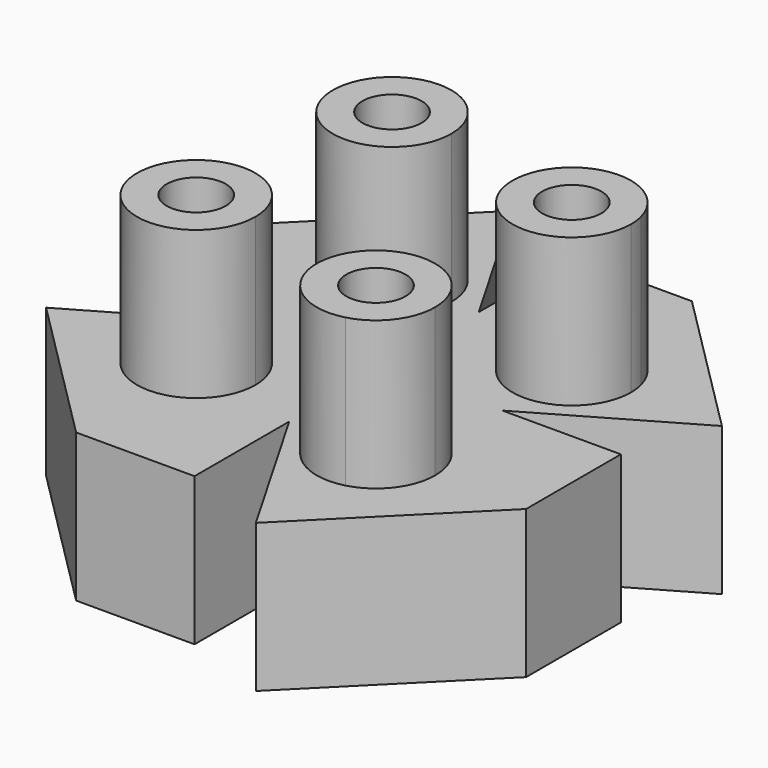
from build123d import *

# Parameters (mm, degrees)
F0_R     = 5
F1_DEPTH = 25
F2_DEPTH = 50


with BuildPart() as f1:
    # F0 (on Top) → F1 (new body)
    with BuildSketch(Plane.XY):
        Polygon((20, 0), (0, 0), (0, -20), (14.641016, -45.358984), (40, -20), (40, 0), align=None)
        with BuildLine():
            ThreePointArc((24.641016, -20), (22.572166, -26.09072), (17.221643, -29.661282))
            ThreePointArc((17.221643, -29.661282), (6.709867, -13.90928), (24.641016, -20))
        make_face(mode=Mode.SUBTRACT)
        with BuildLine():
            ThreePointArc((24.641016, -20), (6.709867, -13.90928), (17.221643, -29.661282))
            ThreePointArc((17.221643, -29.661282), (22.572166, -26.09072), (24.641016, -20))
        make_face()
        with Locations((14.641016, -20)):
            Circle(F0_R, mode=Mode.SUBTRACT)
        Polygon((0, -20), (0, 0), (-20, 0), (-45.358984, -14.641016), (-20, -40), (0, -40), align=None)
        with BuildLine():
            ThreePointArc((-10, -14.641016), (-18.69862, -24.555975), (-29.661282, -17.221643))
            ThreePointArc((-29.661282, -17.221643), (-21.30138, -4.726057), (-10, -14.641016))
        make_face(mode=Mode.SUBTRACT)
        with BuildLine():
            ThreePointArc((-10, -14.641016), (-21.30138, -4.726057), (-29.661282, -17.221643))
            ThreePointArc((-29.661282, -17.221643), (-18.69862, -24.555975), (-10, -14.641016))
        make_face()
        with Locations((-20, -14.641016)):
            Circle(F0_R, mode=Mode.SUBTRACT)
        Polygon((-20, 0), (0, 0), (0, 20), (-14.641016, 45.358984), (-40, 20), (-40, 0), align=None)
        with BuildLine():
            ThreePointArc((-4.641016, 20), (-20.731736, 12.068851), (-17.221643, 29.661282))
            ThreePointArc((-17.221643, 29.661282), (-8.550296, 27.931149), (-4.641016, 20))
        make_face(mode=Mode.SUBTRACT)
        with BuildLine():
            ThreePointArc((-4.641016, 20), (-8.550296, 27.931149), (-17.221643, 29.661282))
            ThreePointArc((-17.221643, 29.661282), (-20.731736, 12.068851), (-4.641016, 20))
        make_face()
        with Locations((-14.641016, 20)):
            Circle(F0_R, mode=Mode.SUBTRACT)
        with Locations((-14.641016, 20)):
            Circle(F0_R)
        Polygon((0, 20), (0, 0), (20, 0), (45.358984, 14.641016), (20, 40), (0, 40), align=None)
        with BuildLine():
            ThreePointArc((30, 14.641016), (10.085041, 13.339636), (29.661282, 17.221643))
            ThreePointArc((29.661282, 17.221643), (29.914959, 15.942396), (30, 14.641016))
        make_face(mode=Mode.SUBTRACT)
        with BuildLine():
            ThreePointArc((30, 14.641016), (29.914959, 15.942396), (29.661282, 17.221643))
            ThreePointArc((29.661282, 17.221643), (10.085041, 13.339636), (30, 14.641016))
        make_face()
        with Locations((20, 14.641016)):
            Circle(F0_R, mode=Mode.SUBTRACT)
    extrude(amount=F1_DEPTH)

    # F0 (on Top) → F2 (join)
    with BuildSketch(Plane.XY):
        with BuildLine():
            ThreePointArc((-4.641016, 20), (-8.550296, 27.931149), (-17.221643, 29.661282))
            ThreePointArc((-17.221643, 29.661282), (-20.731736, 12.068851), (-4.641016, 20))
        make_face()
        with Locations((-14.641016, 20)):
            Circle(F0_R, mode=Mode.SUBTRACT)
        with BuildLine():
            ThreePointArc((-10, -14.641016), (-21.30138, -4.726057), (-29.661282, -17.221643))
            ThreePointArc((-29.661282, -17.221643), (-18.69862, -24.555975), (-10, -14.641016))
        make_face()
        with Locations((-20, -14.641016)):
            Circle(F0_R, mode=Mode.SUBTRACT)
        with BuildLine():
            ThreePointArc((24.641016, -20), (6.709867, -13.90928), (17.221643, -29.661282))
            ThreePointArc((17.221643, -29.661282), (22.572166, -26.09072), (24.641016, -20))
        make_face()
        with Locations((14.641016, -20)):
            Circle(F0_R, mode=Mode.SUBTRACT)
        with BuildLine():
            ThreePointArc((30, 14.641016), (29.914959, 15.942396), (29.661282, 17.221643))
            ThreePointArc((29.661282, 17.221643), (10.085041, 13.339636), (30, 14.641016))
        make_face()
        with Locations((20, 14.641016)):
            Circle(F0_R, mode=Mode.SUBTRACT)
    extrude(amount=F2_DEPTH)


solid = f1.part
